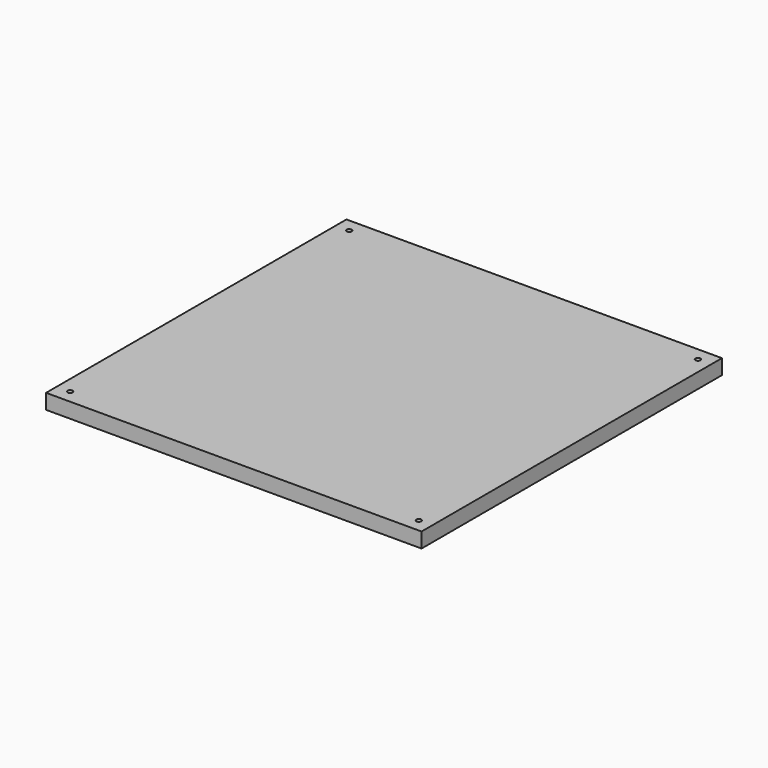
from build123d import *

# Parameters (mm, degrees)
F0_W     = 225
F0_H     = 225
F1_DEPTH = 9
F2_D     = 3


with BuildPart() as f1:
    # F0 (on Top) → F1 (new body)
    with BuildSketch(Plane.XY):
        Rectangle(F0_W, F0_H)
    extrude(amount=F1_DEPTH)

    # F2 (through all)
    with Locations(Plane(origin=(0, 0, 0), x_dir=(1, 0, 0), z_dir=(0, 0, -1))):
        with Locations((-104.5, 104.5), (104.5, 104.5), (-104.5, -104.5), (104.5, -104.5)):
            Hole(F2_D / 2)


solid = f1.part
